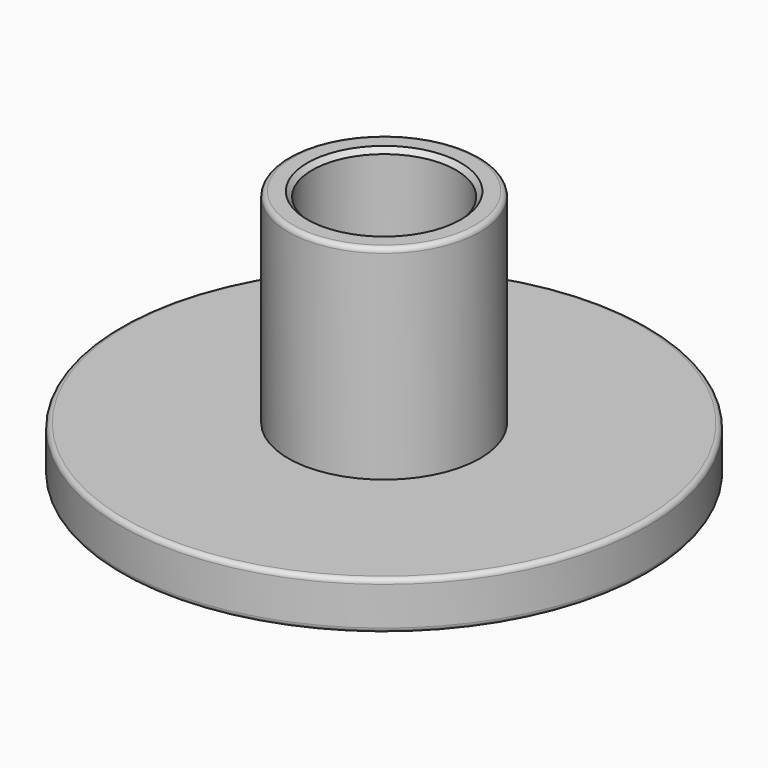
from build123d import *

# Parameters (mm, degrees)
F0_R     = 11
F1_DEPTH = 2
F2_R     = 4
F2_R_2   = 3
F3_DEPTH = 8.5
F4_R     = 0.2
F5_SIZE  = 0.2


with BuildPart() as f1:
    # F0 (on Top) → F1 (new body)
    with BuildSketch(Plane.XY):
        Circle(F0_R)
    extrude(amount=F1_DEPTH)

    # F2 (on face) → F3 (join)
    with BuildSketch(Plane.XY.offset(2)):
        Circle(F2_R)
        Circle(F2_R_2, mode=Mode.SUBTRACT)
    extrude(amount=F3_DEPTH)

    # F4
    f4_edges = [f1.edges().sort_by_distance(p)[0] for p in [
        (-4, 0, 10.5),
        (-11, 0, 2),
        (-11, 0, 0),
    ]]
    fillet(f4_edges, radius=F4_R)

    # F5
    f5_edges = [f1.edges().sort_by_distance(p)[0] for p in [
        (-3, 0, 10.5),
    ]]
    chamfer(f5_edges, length=F5_SIZE)


solid = f1.part
